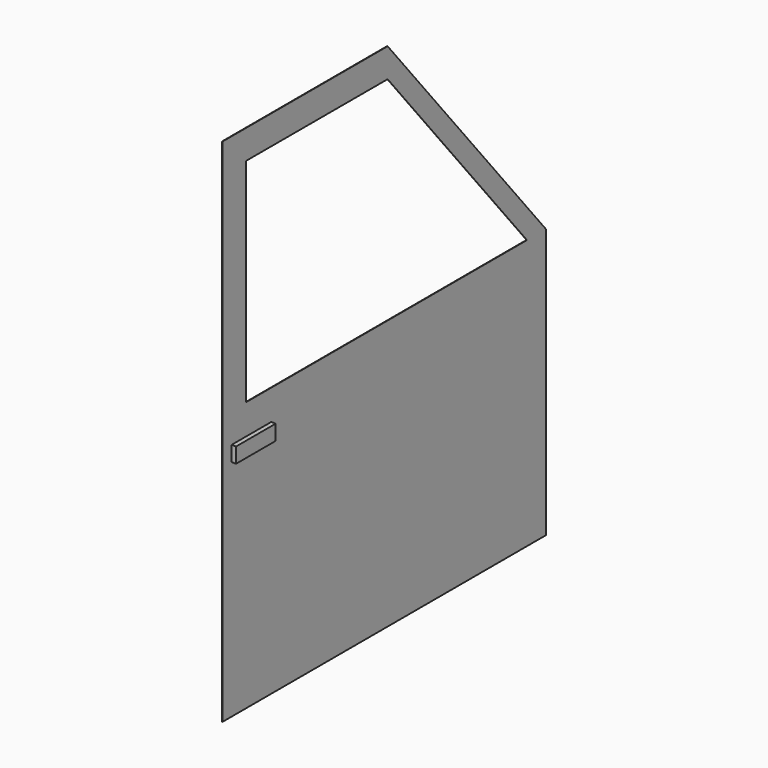
from build123d import *

# Parameters (mm, degrees)
F1_DEPTH = 0.3175
F2_DEPTH = 0.0254


with BuildPart() as f1:
    # F0 (on Right) → F1 (new body, symmetric)
    with BuildSketch(Plane.YZ):
        Polygon((3.981895, 2.143248), (1.910463, 2.143248), (0.750461, 2.143248), (0.750461, 1.148961), (3.981895, 1.148961), align=None)
    extrude(amount=F1_DEPTH, both=True)

    # F0 (on Right) → F2 (join)
    with BuildSketch(Plane.YZ):
        Polygon((13.4874, 19.8882), (0, 19.8882), (0, -13.4874), (26.416, -13.4874), (26.416, 4.1148), align=None)
        Polygon((0.750461, 2.143248), (1.910463, 2.143248), (3.981895, 2.143248), (3.981895, 1.148961), (0.750461, 1.148961), align=None, mode=Mode.SUBTRACT)
        Polygon((24.861934, 4.1148), (1.910463, 4.1148), (1.910463, 17.992178), (13.4874, 17.992178), align=None, mode=Mode.SUBTRACT)
    extrude(amount=F2_DEPTH)


solid = f1.part
